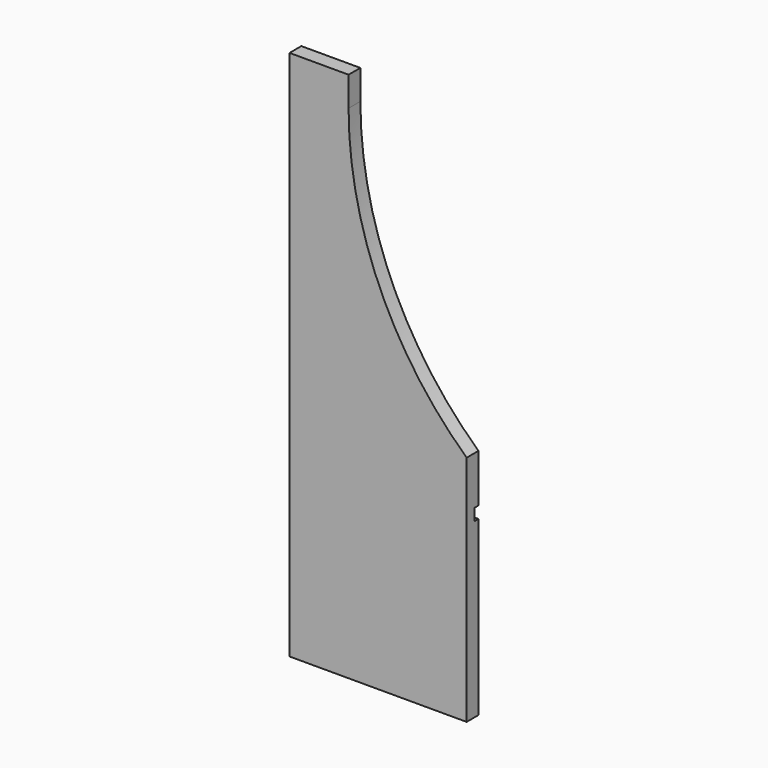
from build123d import *

# Parameters (mm, degrees)
F0_W     = 304.8
F0_H     = 20.32
F0_H_2   = 297.18
F1_DEPTH = 25.4
F2_DEPTH = 8.255


with BuildPart() as f1:
    # F0 (on Front) → F1 (new body)
    with BuildSketch(Plane.XZ):
        with BuildLine():
            Line((-101.6, -1180.333586), (203.2, -1180.333586))
            Line((203.2, -1180.333586), (203.2, -1097.522901))
            ThreePointArc((203.2, -1097.522901), (53.033061, -887.17984), (0, -634.233586))
            Line((0, -634.233586), (0, -583.433586))
            Line((0, -583.433586), (-101.6, -583.433586))
            Line((-101.6, -583.433586), (-101.6, -1180.333586))
        make_face()
        with Locations((50.8, -1190.493586)):
            Rectangle(F0_W, F0_H)
        with Locations((50.8, -1349.243586)):
            Rectangle(F0_W, F0_H_2)
    extrude(amount=F1_DEPTH)

    # F0 (on Front) → F2 (cut)
    with BuildSketch(Plane.XZ):
        with Locations((50.8, -1190.493586)):
            Rectangle(F0_W, F0_H)
    extrude(amount=F2_DEPTH, mode=Mode.SUBTRACT)


solid = f1.part
